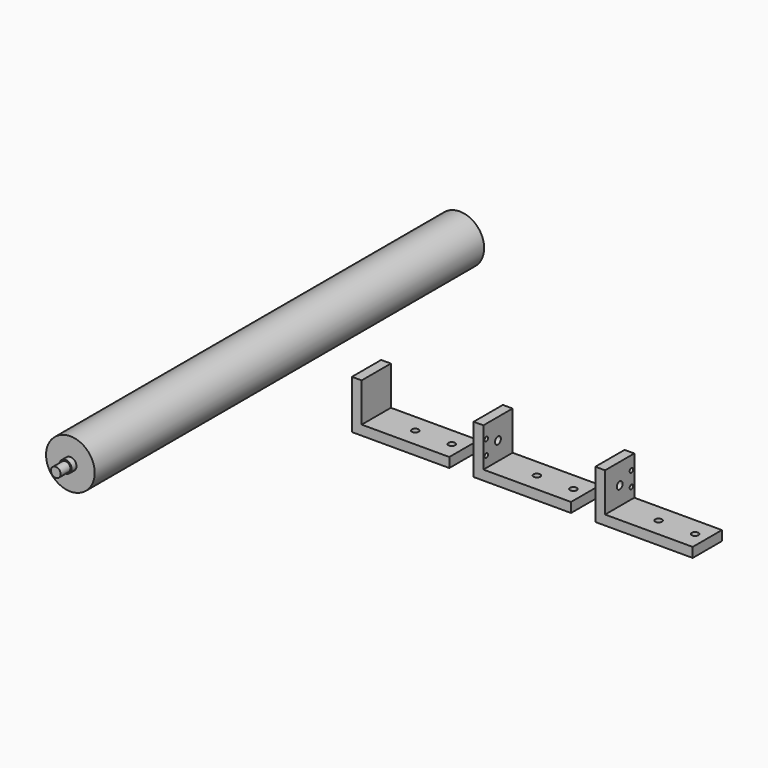
from build123d import *

# Parameters (mm, degrees)
F0_R      = 4
F1_DEPTH  = 215
F2_R      = 5
F3_DEPTH  = 205
F4_R      = 20
F5_DEPTH  = 200
F7_DEPTH  = 30
F8_R      = 2.75
F9_DEPTH  = 12.8938689212
F13_R     = 1.75
F13_R_2   = 3
F14_DEPTH = 8
F15_R     = 1.75
F15_R_2   = 3
F16_DEPTH = 8


with BuildPart() as f1:
    # F0 (on Front) → F1 (new body, symmetric)
    with BuildSketch(Plane.XZ):
        Circle(F0_R)
    extrude(amount=F1_DEPTH, both=True)

    # F2 (on Front) → F3 (join, symmetric)
    with BuildSketch(Plane.XZ):
        Circle(F2_R)
    extrude(amount=F3_DEPTH, both=True)

    # F4 (on Front) → F5 (join, symmetric)
    with BuildSketch(Plane.XZ):
        Circle(F4_R)
    extrude(amount=F5_DEPTH, both=True)


with BuildPart() as f7:
    # F6 (on Front) → F7 (new body)
    with BuildSketch(Plane.XZ):
        Polygon((103.3548788592, 24.8928689212), (95.3548788592, 24.8928689212), (95.3548788592, -15.1071310788), (175.3548788592, -15.1071310788), (175.3548788592, -7.1071310788), (103.3548788592, -7.1071310788), align=None)
    extrude(amount=F7_DEPTH)

    # F8 (on face) → F9 (cut, through all)
    with BuildSketch(Plane.XY.offset(-7.1071310788)):
        with Locations((135.3548788592, -15)):
            Circle(F8_R)
        with Locations((165.3548788592, -15)):
            Circle(F8_R)
    extrude(amount=-F9_DEPTH, mode=Mode.SUBTRACT)


with BuildPart() as f11_1:
    # F11: copy of F7
    add(f7.part.moved(Location((100, 0, 0))))


with BuildPart() as f12_1:
    # F12: copy of F11_1
    add(f11_1.part.moved(Location((100, 0, 0))))

    # F15 (on face) → F16 (cut)
    with BuildSketch(Plane.YZ.offset(303.3548788592)):
        with Locations((-3, 13.8928689212)):
            Circle(F15_R)
        with Locations((-3, 1.8928689212)):
            Circle(F15_R)
        with Locations((-15, 7.8928689212)):
            Circle(F15_R_2)
    extrude(amount=-F16_DEPTH, mode=Mode.SUBTRACT)


with BuildPart() as f11_1_1:
    add(f11_1.part)

    # F13 (on face) → F14 (cut)
    with BuildSketch(Plane.YZ.offset(203.3548788592)):
        with Locations((-27, 13.8928689212)):
            Circle(F13_R)
        with Locations((-27, 1.8928689212)):
            Circle(F13_R)
        with Locations((-15, 7.8928689212)):
            Circle(F13_R_2)
    extrude(amount=-F14_DEPTH, mode=Mode.SUBTRACT)


solid = Compound([f1.part, f7.part, f12_1.part, f11_1_1.part])
